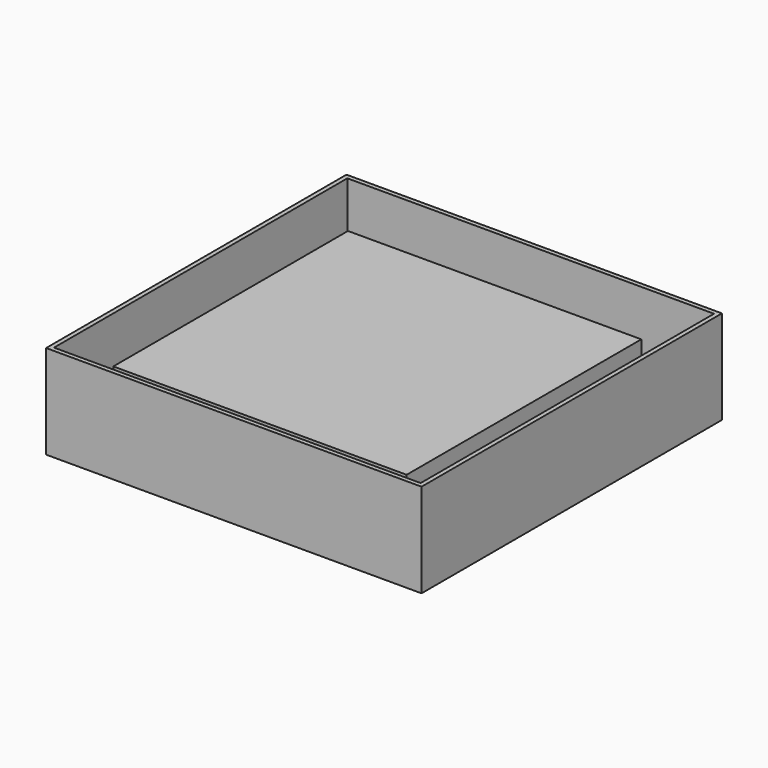
from build123d import *

# Parameters (mm, degrees)
F0_W      = 1250
F0_H      = 1250
F1_DEPTH  = 15
F2_W      = 1265
F2_H      = 320
F6_DEPTH  = 15
F3_W      = 1265
F3_H      = 320
F7_DEPTH  = 15
F4_W      = 1265
F4_H      = 320
F8_DEPTH  = 15
F5_W      = 1265
F5_H      = 320
F9_DEPTH  = 15
F11_W     = 1000
F11_H     = 1000
F12_DEPTH = 231


with BuildPart() as f1:
    # F0 (on Top) → F1 (new body)
    with BuildSketch(Plane.XY):
        Rectangle(F0_W, F0_H)
    extrude(amount=F1_DEPTH)

    # F2 (on face) → F6 (join)
    with BuildSketch(Plane.XZ.offset(625)):
        with Locations((7.5, 160)):
            Rectangle(F2_W, F2_H)
    extrude(amount=F6_DEPTH)

    # F3 (on face) → F7 (join)
    with BuildSketch(Plane.YZ.offset(625)):
        with Locations((7.5, 160)):
            Rectangle(F3_W, F3_H)
    extrude(amount=F7_DEPTH)

    # F4 (on face) → F8 (join)
    with BuildSketch(Plane(origin=(-625, 0, 0), x_dir=(0, -1, 0), z_dir=(-1, 0, 0))):
        with Locations((7.5, 160)):
            Rectangle(F4_W, F4_H)
    extrude(amount=F8_DEPTH)

    # F5 (on face) → F9 (join)
    with BuildSketch(Plane(origin=(0, 625, 0), x_dir=(-1, 0, 0), z_dir=(0, 1, 0))):
        with Locations((7.5, 160)):
            Rectangle(F5_W, F5_H)
    extrude(amount=F9_DEPTH)

    # F11 (on face) → F12 (join)
    with BuildSketch(Plane.XY.offset(15)):
        with Locations((-22.866359, 0)):
            Rectangle(F11_W, F11_H)
    extrude(amount=F12_DEPTH)


solid = f1.part
